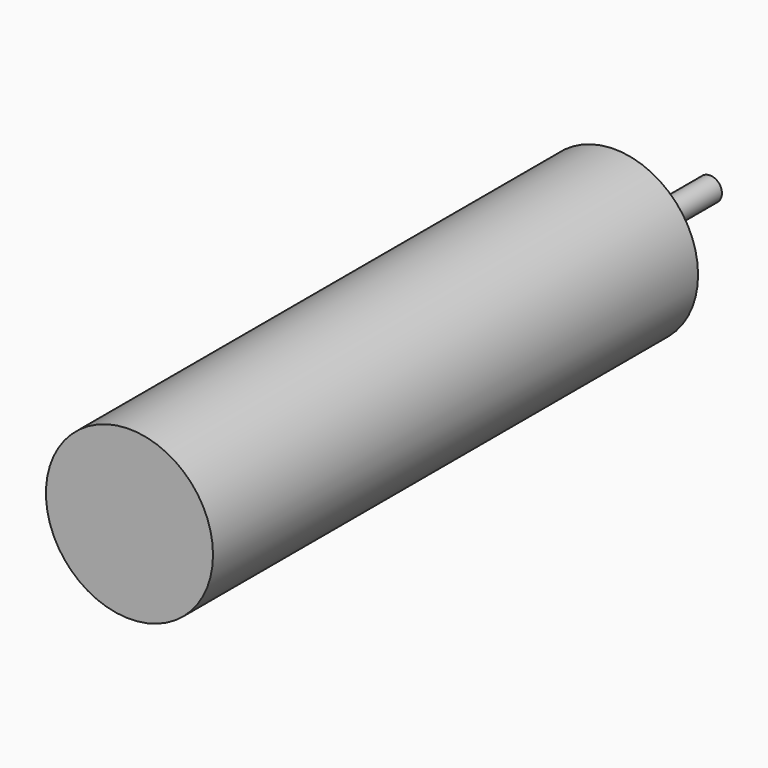
from build123d import *

# Parameters (mm, degrees)
F1_R     = 3.5
F2_DEPTH = 15
F3_R     = 0.5
F4_DEPTH = 5
F0_R     = 3.5
F5_DEPTH = 25.4
F6_R     = 0.5
F7_DEPTH = 5


with BuildPart() as f2:
    # F1 (on face) → F2 (new body)
    with BuildSketch(Plane.XZ):
        Circle(F1_R)
    extrude(amount=F2_DEPTH)

    # F3 (on face) → F4 (join)
    with BuildSketch(Plane.XZ):
        Circle(F3_R)
    extrude(amount=F4_DEPTH)

    # F0 (on Front) → F5 (join)
    with BuildSketch(Plane.XZ):
        Circle(F0_R)
    extrude(amount=F5_DEPTH)

    # F6 (on face) → F7 (join)
    with BuildSketch(Plane(origin=(0, 0, 0), x_dir=(-1, 0, 0), z_dir=(0, 1, 0))):
        Circle(F6_R)
    extrude(amount=F7_DEPTH)


solid = f2.part
